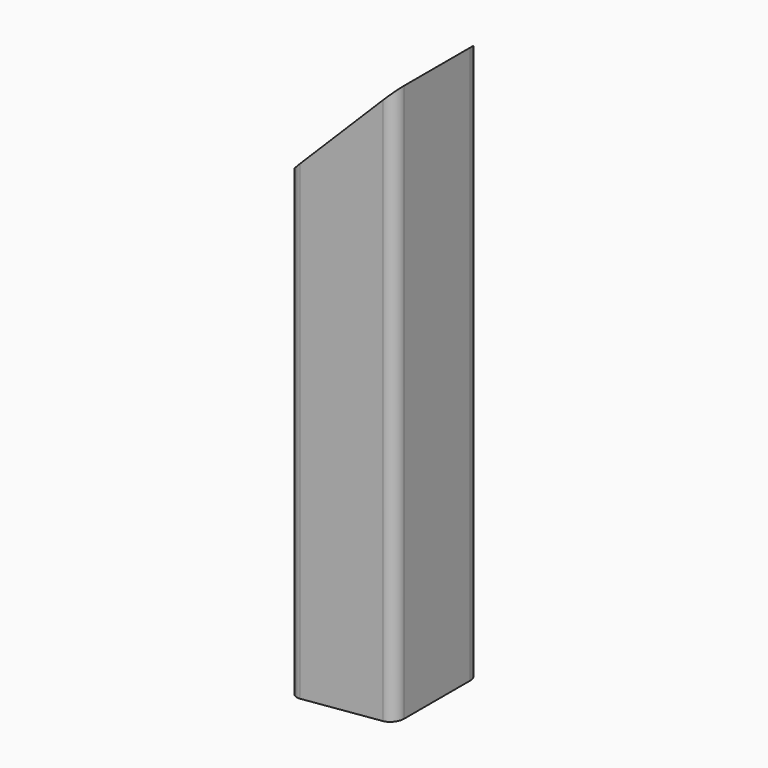
from build123d import *

# Parameters (mm, degrees)
F0_W          = 57.15
F0_H          = 57.15
F0_W_2        = 51.054
F0_H_2        = 51.054
F1_DEPTH      = 304.8
F2_R          = 3.048
F3_R          = 6.35
F5_DEPTH      = 28.576
F5_DEPTH_BACK = 28.576
F7_DEPTH      = 28.576
F7_DEPTH_BACK = 28.576


with BuildPart() as f1:
    # F0 (on Top) → F1 (new body)
    with BuildSketch(Plane.XY):
        Rectangle(F0_W, F0_H)
        Rectangle(F0_W_2, F0_H_2, mode=Mode.SUBTRACT)
    extrude(amount=F1_DEPTH)

    # F2
    f2_edges = [f1.edges().sort_by_distance(p)[0] for p in [
        (25.527, 25.527, 152.4),
        (-25.527, 25.527, 152.4),
        (-25.527, -25.527, 152.4),
        (25.527, -25.527, 152.4),
    ]]
    fillet(f2_edges, radius=F2_R)

    # F3
    f3_edges = [f1.edges().sort_by_distance(p)[0] for p in [
        (-28.575, 28.575, 152.4),
        (-28.575, -28.575, 152.4),
        (28.575, -28.575, 152.4),
        (28.575, 28.575, 152.4),
    ]]
    fillet(f3_edges, radius=F3_R)

    # F4 (on Front) → F5 (cut, two sides)
    with BuildSketch(Plane.XZ) as f5_sk:
        Polygon((-28.575, 247.65), (28.575, 304.8), (-28.575, 304.8), align=None)
    extrude(amount=-F5_DEPTH, mode=Mode.SUBTRACT)
    extrude(f5_sk.sketch, amount=F5_DEPTH_BACK, mode=Mode.SUBTRACT)

    # F6 (on Front) → F7 (cut, two sides)
    with BuildSketch(Plane.XZ) as f7_sk:
        Polygon((28.575, 4.9999771205), (-28.575, 0), (28.575, 0), align=None)
    extrude(amount=-F7_DEPTH, mode=Mode.SUBTRACT)
    extrude(f7_sk.sketch, amount=F7_DEPTH_BACK, mode=Mode.SUBTRACT)


solid = f1.part
